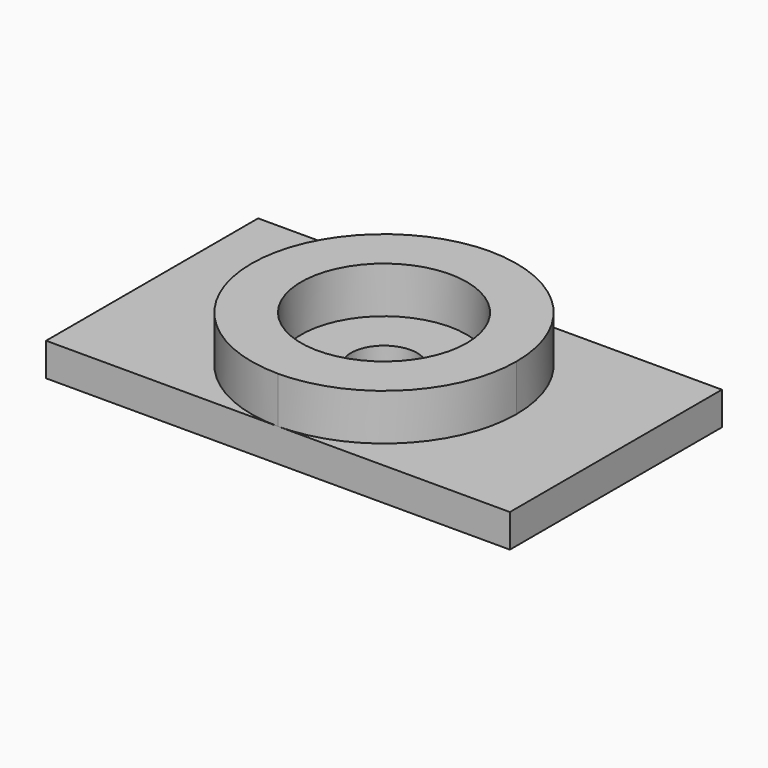
from build123d import *

# Parameters (mm, degrees)
F0_R     = 12.5
F0_R_2   = 5
F1_DEPTH = 5
F2_DEPTH = 12
F3_DEPTH = 5


with BuildPart() as f1:
    # F0 (on Top) → F1 (new body)
    with BuildSketch(Plane.XY):
        with Locations((5.99056, 3.405503)):
            Circle(F0_R)
        with Locations((5.99056, 3.405503)):
            Circle(F0_R_2, mode=Mode.SUBTRACT)
    extrude(amount=F1_DEPTH)

    # F0 (on Top) → F2 (join)
    with BuildSketch(Plane.XY):
        with BuildLine():
            ThreePointArc((25.99056, 3.405503), (20.132696, 17.547638), (5.99056, 23.405503))
            ThreePointArc((5.99056, 23.405503), (-14.00944, 3.405503), (5.99056, -16.594497))
            ThreePointArc((5.99056, -16.594497), (20.132696, -10.736633), (25.99056, 3.405503))
        make_face()
        with Locations((5.99056, 3.405503)):
            Circle(F0_R, mode=Mode.SUBTRACT)
    extrude(amount=F2_DEPTH)

    # F0 (on Top) → F3 (join)
    with BuildSketch(Plane.XY):
        with BuildLine():
            Line((40.99056, 23.405503), (5.99056, 23.405503))
            ThreePointArc((5.99056, 23.405503), (20.132696, 17.547638), (25.99056, 3.405503))
            ThreePointArc((25.99056, 3.405503), (20.132696, -10.736633), (5.99056, -16.594497))
            Line((5.99056, -16.594497), (40.99056, -16.594497))
            Line((40.99056, -16.594497), (40.99056, 23.405503))
        make_face()
        with BuildLine():
            Line((5.99056, 23.405503), (-29.00944, 23.405503))
            Line((-29.00944, 23.405503), (-29.00944, -16.594497))
            Line((-29.00944, -16.594497), (5.99056, -16.594497))
            ThreePointArc((5.99056, -16.594497), (-14.00944, 3.405503), (5.99056, 23.405503))
        make_face()
    extrude(amount=F3_DEPTH)


solid = f1.part
